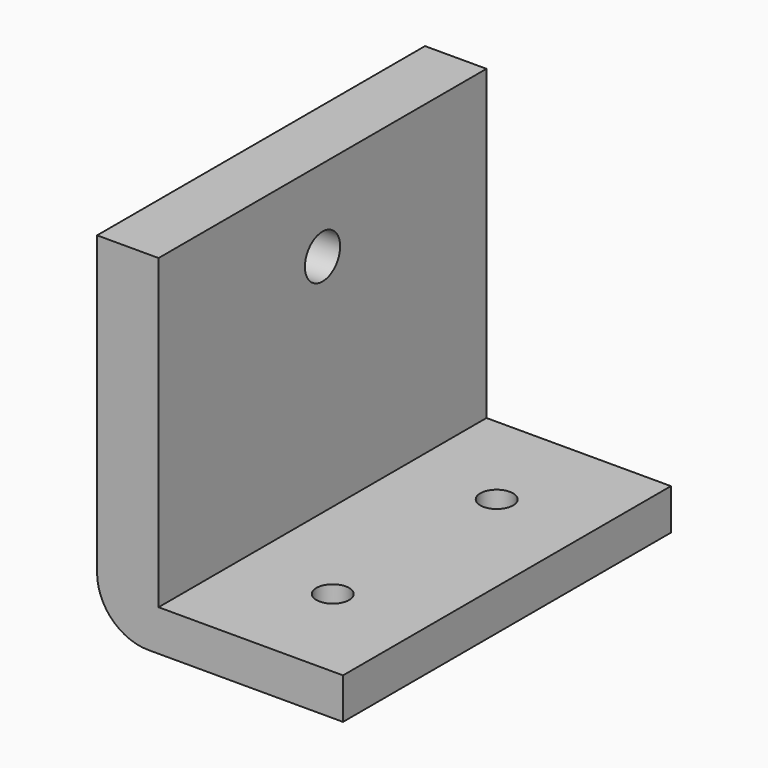
from build123d import *

# Parameters (mm, degrees)
F0_W     = 6
F0_H     = 30
F1_DEPTH = 40
F2_R     = 5
F3_R     = 2.15
F4_DEPTH = 25
F5_R     = 1.6
F6_DEPTH = 25


with BuildPart() as f1:
    # F0 (on Front) → F1 (new body)
    with BuildSketch(Plane.XZ):
        Polygon((21, -15), (3, -15), (-3, -15), (-3, -19), (21, -19), align=None)
        Rectangle(F0_W, F0_H)
    extrude(amount=F1_DEPTH)

    # F2
    f2_edges = [f1.edges().sort_by_distance(p)[0] for p in [
        (-3, -20, -19),
    ]]
    fillet(f2_edges, radius=F2_R)

    # F3 (on face) → F4 (cut)
    with BuildSketch(Plane(origin=(-3, 0, 0), x_dir=(0, -1, 0), z_dir=(-1, 0, 0))):
        with Locations((20, 7)):
            Circle(F3_R)
    extrude(amount=-F4_DEPTH, mode=Mode.SUBTRACT)

    # F5 (on face) → F6 (cut)
    with BuildSketch(Plane.XY.offset(-15)):
        with Locations((12, -10)):
            Circle(F5_R)
        with Locations((12, -30)):
            Circle(F5_R)
    extrude(amount=-F6_DEPTH, mode=Mode.SUBTRACT)


solid = f1.part
